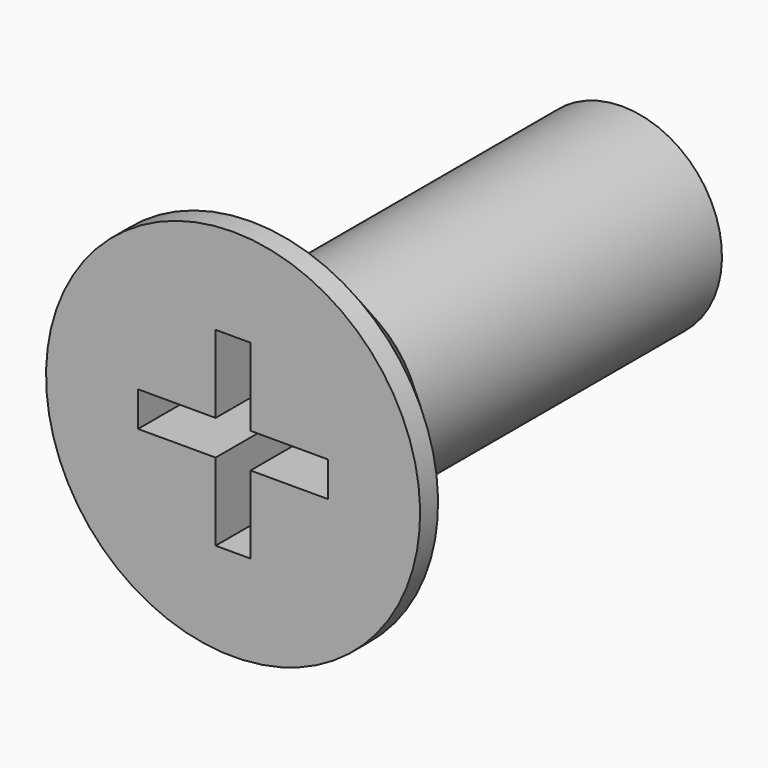
from build123d import *

# Parameters (mm, degrees)
POCKET_DEPTH = 2.54


with BuildPart() as part:
    # Sketch → Revolution (revolve)
    with BuildSketch(Plane.YZ):
        Polygon((0, 0), (0, 3.75), (0.45, 3.75), (2.2, 2), (9.751739, 2), (10, 1.57), (10, 0), align=None)
    revolve(axis=Axis((0, 0, 0), (0, 1, 0)))

    # Sketch001 → Pocket (cut)
    with BuildSketch(Plane(origin=(0, 0, 0), x_dir=(0, 0, -1), z_dir=(0, -1, 0))):
        Polygon((-1.905, 0.35), (-0.35, 0.35), (-0.35, 1.905), (0.35, 1.905), (0.35, 0.35), (1.905, 0.35), (1.905, -0.35), (0.35, -0.35), (0.35, -1.905), (-0.35, -1.905), (-0.35, -0.35), (-1.905, -0.35), align=None)
    extrude(amount=-POCKET_DEPTH, mode=Mode.SUBTRACT)


solid = part.part
